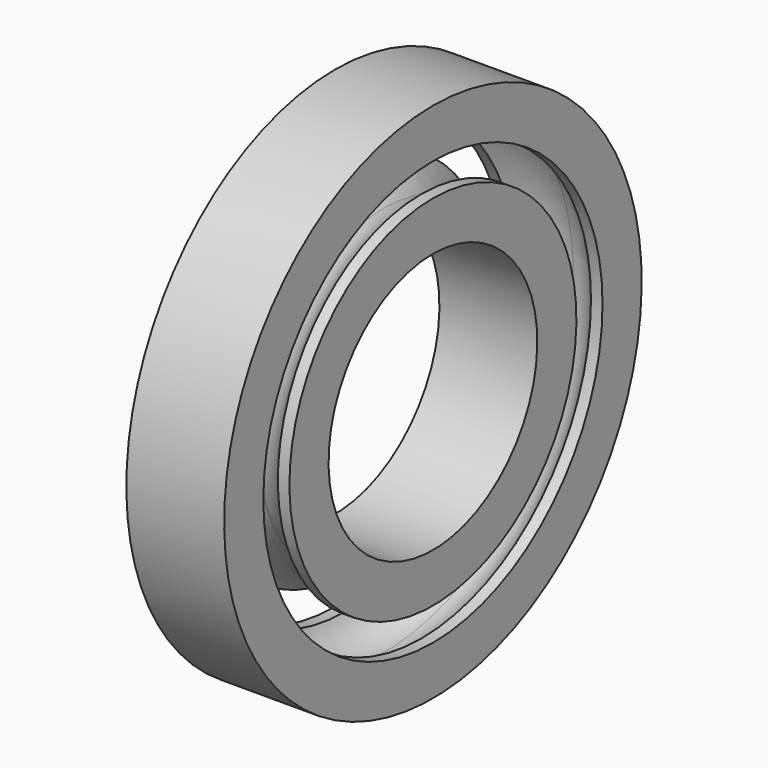
from build123d import *


with BuildPart() as f1:
    # F0 (on Front) → F1 (revolve)
    with BuildSketch(Plane.XZ):
        with BuildLine():
            Line((9.525, 17.096154), (-9.525, 17.096154))
            Line((-9.525, 17.096154), (-9.525, 7.571154))
            Line((-9.525, 7.571154), (-7.274839, 7.571154))
            ThreePointArc((-7.274839, 7.571154), (-4.347548, 11.037143), (0, 12.333654))
            ThreePointArc((0, 12.333654), (4.347548, 11.037143), (7.274839, 7.571154))
            Line((7.274839, 7.571154), (9.525, 7.571154))
            Line((9.525, 7.571154), (9.525, 17.096154))
        make_face()
        with BuildLine():
            ThreePointArc((0, -3.541346), (-4.347548, -2.244835), (-7.274839, 1.221154))
            Line((-7.274839, 1.221154), (-9.525, 1.221154))
            Line((-9.525, 1.221154), (-9.525, -8.303846))
            Line((-9.525, -8.303846), (9.525, -8.303846))
            Line((9.525, -8.303846), (9.525, 1.221154))
            Line((9.525, 1.221154), (7.274839, 1.221154))
            ThreePointArc((7.274839, 1.221154), (4.347548, -2.244835), (0, -3.541346))
        make_face()
    revolve(axis=Axis((0, 0, -33.703846), (1, 0, 0)))


solid = f1.part
